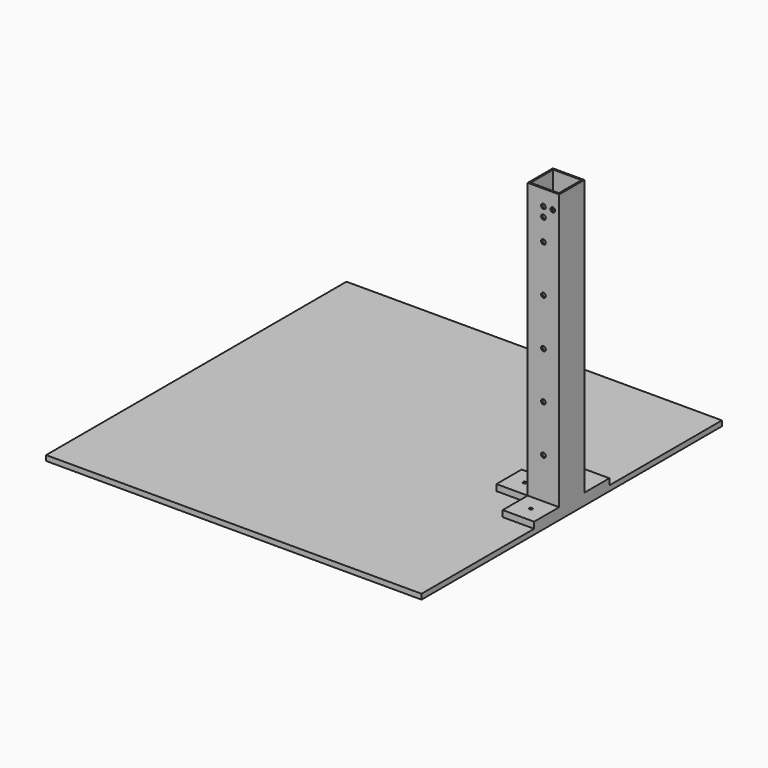
from build123d import *

# Parameters (mm, degrees)
F0_W      = 304.8
F0_H      = 304.8
F1_DEPTH  = 4.2418
F2_W      = 25.527
F2_H      = 25.527
F2_W_2    = 22.987
F2_H_2    = 22.987
F3_DEPTH  = 228.6
F4_R      = 1.905
F5_DEPTH  = 165.1645
F6_W      = 25.527
F6_H      = 5.08
F7_DEPTH  = 25.4
F8_R      = 1.27
F9_DEPTH  = 5.08
F11_W     = 25.527
F11_H     = 5.08
F12_DEPTH = 25.4
F13_R     = 1.27
F14_DEPTH = 5.08
F15_R     = 1.905
F16_DEPTH = 165.1645


with BuildPart() as f1:
    # F0 (on Top) → F1 (new body)
    with BuildSketch(Plane.XY):
        Rectangle(F0_W, F0_H)
    extrude(amount=F1_DEPTH)

    # F2 (on face) → F3 (join)
    with BuildSketch(Plane.XY.offset(4.2418)):
        with Locations((139.6365, 0)):
            Rectangle(F2_W, F2_H)
        with Locations((139.6365, 0)):
            Rectangle(F2_W_2, F2_H_2, mode=Mode.SUBTRACT)
    extrude(amount=F3_DEPTH)

    # F4 (on face) → F5 (cut, through all)
    with BuildSketch(Plane.XZ.offset(12.7635)):
        with Locations((139.6365, 42.3418)):
            Circle(F4_R)
        with Locations((139.6365, 80.4418)):
            Circle(F4_R)
        with Locations((139.6365, 118.5418)):
            Circle(F4_R)
        with Locations((139.6365, 156.6418)):
            Circle(F4_R)
        with Locations((139.6365, 194.7418)):
            Circle(F4_R)
    extrude(amount=-F5_DEPTH, mode=Mode.SUBTRACT)

    # F6 (on face) → F7 (join)
    with BuildSketch(Plane.XZ.offset(12.7635)):
        with Locations((139.6365, 6.7818)):
            Rectangle(F6_W, F6_H)
    extrude(amount=F7_DEPTH)

    # F8 (on face) → F9 (cut)
    with BuildSketch(Plane.XY.offset(9.3218)):
        with Locations((139.6365, -25.4635)):
            Circle(F8_R)
    extrude(amount=-F9_DEPTH, mode=Mode.SUBTRACT)

    # F10: F1 across plane


with BuildPart() as f1_1:
    add(f1.part)
    add(f1.part.mirror(Plane.XZ))

    # F11 (on face) → F12 (join)
    with BuildSketch(Plane(origin=(126.873, 0, 0), x_dir=(0, -1, 0), z_dir=(-1, 0, 0))):
        with Locations((0, 6.7818)):
            Rectangle(F11_W, F11_H)
    extrude(amount=F12_DEPTH)

    # F13 (on face) → F14 (cut)
    with BuildSketch(Plane.XY.offset(9.3218)):
        with Locations((114.173, 0)):
            Circle(F13_R)
    extrude(amount=-F14_DEPTH, mode=Mode.SUBTRACT)

    # F15 (on face) → F16 (cut, through all)
    with BuildSketch(Plane.XZ.offset(12.7635)):
        with Locations((139.6365, 220.1418)):
            Circle(F15_R)
        with Locations((147.2565, 220.1418)):
            Circle(F15_R)
        with Locations((139.6365, 212.5218)):
            Circle(F15_R)
    extrude(amount=-F16_DEPTH, mode=Mode.SUBTRACT)


solid = f1_1.part
